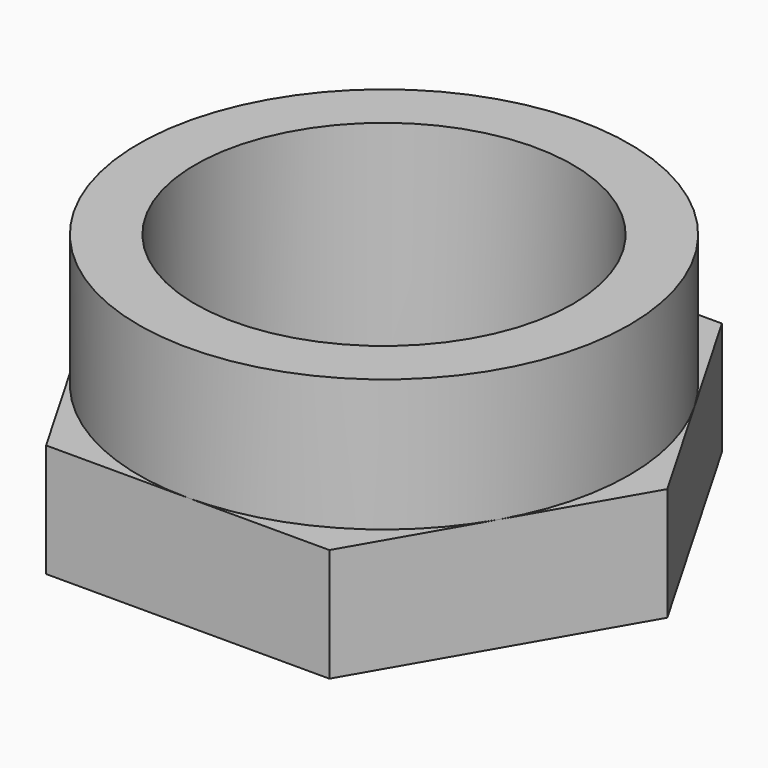
from build123d import *

# Parameters (mm, degrees)
SKETCH_R      = 5
PAD_DEPTH     = 3
SKETCH001_R   = 6.5
SKETCH001_R_2 = 5
PAD001_DEPTH  = 3.5


with BuildPart() as part:
    # Sketch → Pad (new body)
    with BuildSketch(Plane.XY):
        Polygon((7.505553, 0), (3.752777, 6.5), (-3.752777, 6.5), (-7.505553, 0), (-3.752777, -6.5), (3.752777, -6.5), align=None)
        Circle(SKETCH_R, mode=Mode.SUBTRACT)
    extrude(amount=PAD_DEPTH)

    # Sketch001 (on Face9 of Pad) → Pad001 (join)
    with BuildSketch(Plane.XY.offset(3)):
        Circle(SKETCH001_R)
        Circle(SKETCH001_R_2, mode=Mode.SUBTRACT)
    extrude(amount=PAD001_DEPTH)


solid = part.part
